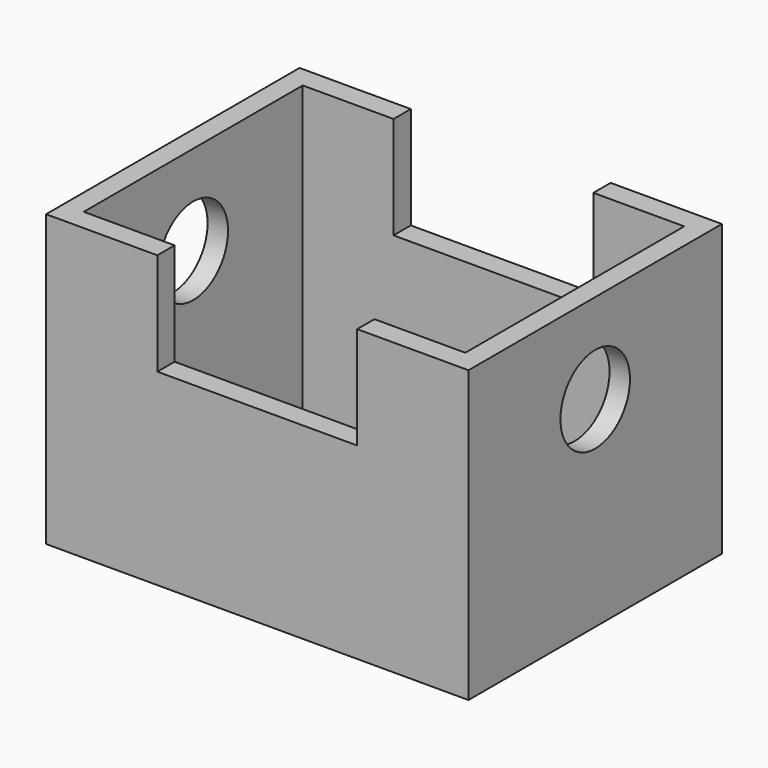
from build123d import *

# Parameters (mm, degrees)
F0_W     = 110.851846
F0_H     = 83.138884
F0_W_2   = 100.124248
F0_H_2   = 71.815304
F1_DEPTH = 76.2
F2_W     = 52.446034
F2_H     = 26.882852
F3_DEPTH = 103.124
F4_R     = 11.409512
F5_DEPTH = 113.538


with BuildPart() as f1:
    # F0 (on Top) → F1 (new body)
    with BuildSketch(Plane.XY):
        Rectangle(F0_W, F0_H)
        Rectangle(F0_W_2, F0_H_2, mode=Mode.SUBTRACT)
    extrude(amount=F1_DEPTH)

    # F2 (on face) → F3 (cut)
    with BuildSketch(Plane.XZ.offset(41.569442)):
        with Locations((0, 62.758574)):
            Rectangle(F2_W, F2_H)
    extrude(amount=-F3_DEPTH, mode=Mode.SUBTRACT)

    # F4 (on face) → F5 (cut)
    with BuildSketch(Plane.YZ.offset(55.425923)):
        with Locations((0, 52.595027)):
            Circle(F4_R)
    extrude(amount=-F5_DEPTH, mode=Mode.SUBTRACT)


solid = f1.part
